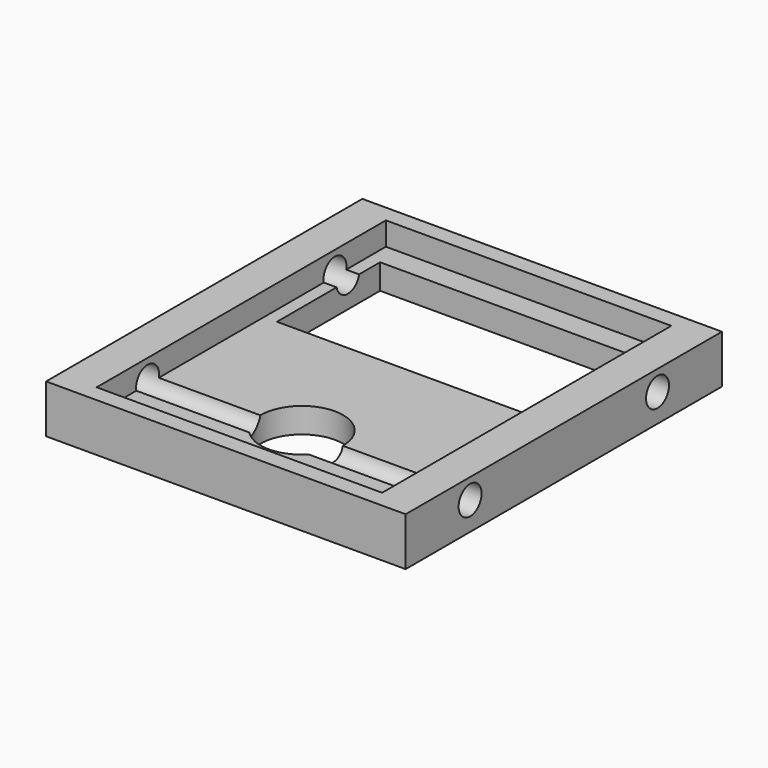
from build123d import *

# Parameters (mm, degrees)
F0_W     = 28.3464
F0_H     = 31.1658
F1_DEPTH = 3.81
F2_W     = 22.5044
F2_H     = 28.4988
F3_DEPTH = 1.8288
F4_R     = 1.1303
F5_DEPTH = 28.3474
F6_R     = 3.2512
F6_W     = 20.4724
F6_H     = 10.16
F7_DEPTH = 3.811


with BuildPart() as f1:
    # F0 (on Top) → F1 (new body)
    with BuildSketch(Plane.XY):
        Rectangle(F0_W, F0_H)
    extrude(amount=F1_DEPTH)

    # F2 (on face) → F3 (cut)
    with BuildSketch(Plane.XY.offset(3.81)):
        Rectangle(F2_W, F2_H)
    extrude(amount=-F3_DEPTH, mode=Mode.SUBTRACT)

    # F4 (on face) → F5 (cut, through all)
    with BuildSketch(Plane(origin=(-14.1732, 0, 0), x_dir=(0, -1, 0), z_dir=(-1, 0, 0))):
        with Locations((9.2329, 2.2098)):
            Circle(F4_R)
        with Locations((-9.2329, 2.2098)):
            Circle(F4_R)
    extrude(amount=-F5_DEPTH, mode=Mode.SUBTRACT)

    # F6 (on face) → F7 (cut, through all)
    with BuildSketch(Plane(origin=(0, 0, 0), x_dir=(1, 0, 0), z_dir=(0, 0, -1))):
        with Locations((0, 8.0899)):
            Circle(F6_R)
        with Locations((0, -7.3279)):
            Rectangle(F6_W, F6_H)
    extrude(amount=-F7_DEPTH, mode=Mode.SUBTRACT)


solid = f1.part
